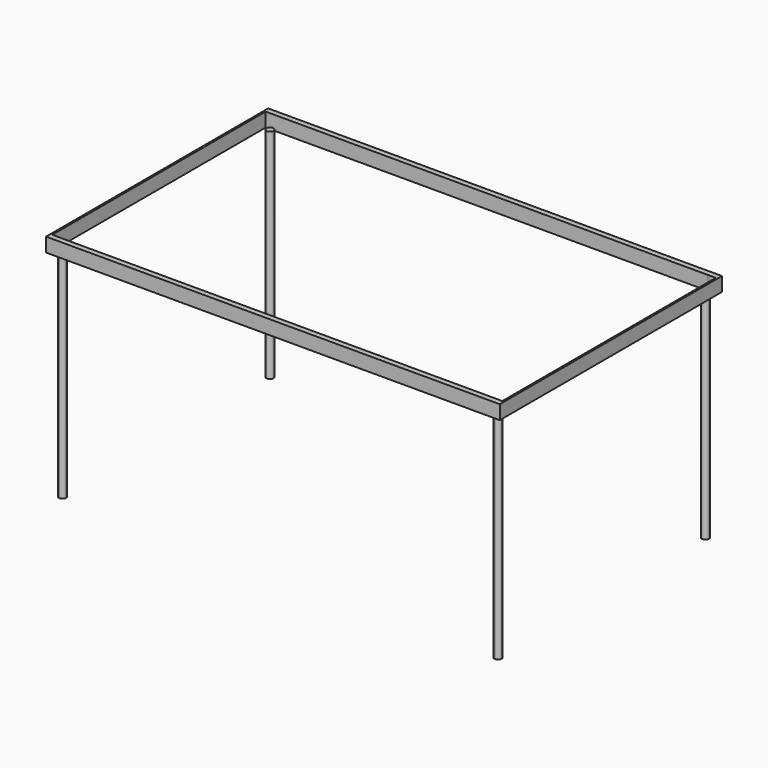
from build123d import *

# Parameters (mm, degrees)
F0_W     = 20
F0_H     = 147.4564534426
F0_H_2   = 1352.5435465574
F0_W_2   = 4600
F0_H_3   = 60
F0_H_4   = 1300
F0_H_5   = 1360
F0_H_6   = 140
F1_DEPTH = 130
F2_DEPTH = 25
F0_R     = 40
F3_DEPTH = 2400
F4_ANGLE = -180


with BuildPart() as f1:
    # F0 (on Top) → F1 (new body)
    with BuildSketch(Plane.XY):
        with Locations((-2490, 103.7282267213)):
            Rectangle(F0_W, F0_H)
        Polygon((-2480, 30), (-2500, 30), (-2500, -30), (-2300, -30), (-2300, 30), align=None)
        with Locations((-2490, 853.7282267213)):
            Rectangle(F0_W, F0_H_2)
        Rectangle(F0_W_2, F0_H_3)
        with Locations((-2490, 2180)):
            Rectangle(F0_W, F0_H_4)
        with BuildLine():
            Line((2387.8667315806, 30), (2300, 30))
            Line((2300, 30), (2300, -30))
            Line((2300, -30), (2500, -30))
            Line((2500, -30), (2500, 30))
            Line((2500, 30), (2480, 30))
            Line((2480, 30), (2407.6798000967, 30))
            ThreePointArc((2407.6798000967, 30), (2397.7732658386, 28.7538459897), (2387.8667315806, 30))
        make_face()
        Polygon((-2500, 3030), (-2500, 2830), (-2480, 2830), (-2480, 2970), (-2480, 3030), align=None)
        with Locations((2490, 850)):
            Rectangle(F0_W, F0_H_5)
        with Locations((2490, 2180)):
            Rectangle(F0_W, F0_H_4)
        with Locations((2490, 100)):
            Rectangle(F0_W, F0_H_6)
        Polygon((-2480, 3030), (-2480, 2970), (-2399.7459411621, 2970), (-2300, 2970), (-2300, 3030), align=None)
        with Locations((2490, 2900)):
            Rectangle(F0_W, F0_H_6)
        with Locations((0, 3000)):
            Rectangle(F0_W_2, F0_H_3)
        Polygon((2400.2509123045, 2970), (2480, 2970), (2500, 2970), (2500, 3030), (2300, 3030), (2300, 2970), align=None)
    extrude(amount=-F1_DEPTH)

    # F0 (on Top) → F2 (join)
    with BuildSketch(Plane.XY):
        with Locations((-2490, 103.7282267213)):
            Rectangle(F0_W, F0_H)
        Polygon((-2480, 30), (-2500, 30), (-2500, -30), (-2300, -30), (-2300, 30), align=None)
        with Locations((-2490, 853.7282267213)):
            Rectangle(F0_W, F0_H_2)
        Rectangle(F0_W_2, F0_H_3)
        with Locations((-2490, 2180)):
            Rectangle(F0_W, F0_H_4)
        with BuildLine():
            Line((2387.8667315806, 30), (2300, 30))
            Line((2300, 30), (2300, -30))
            Line((2300, -30), (2500, -30))
            Line((2500, -30), (2500, 30))
            Line((2500, 30), (2480, 30))
            Line((2480, 30), (2407.6798000967, 30))
            ThreePointArc((2407.6798000967, 30), (2397.7732658386, 28.7538459897), (2387.8667315806, 30))
        make_face()
        Polygon((-2500, 3030), (-2500, 2830), (-2480, 2830), (-2480, 2970), (-2480, 3030), align=None)
        with Locations((2490, 850)):
            Rectangle(F0_W, F0_H_5)
        with Locations((2490, 2180)):
            Rectangle(F0_W, F0_H_4)
        with Locations((2490, 100)):
            Rectangle(F0_W, F0_H_6)
        Polygon((-2480, 3030), (-2480, 2970), (-2399.7459411621, 2970), (-2300, 2970), (-2300, 3030), align=None)
        with Locations((2490, 2900)):
            Rectangle(F0_W, F0_H_6)
        with Locations((0, 3000)):
            Rectangle(F0_W_2, F0_H_3)
        Polygon((2400.2509123045, 2970), (2480, 2970), (2500, 2970), (2500, 3030), (2300, 3030), (2300, 2970), align=None)
    extrude(amount=F2_DEPTH)

    # F0 (on Top) → F3, piece 2 (join)
    with BuildSketch(Plane.XY):
        with BuildLine():
            ThreePointArc((2440.2509117126, 2930), (2428.5351831694, 2958.2842710382), (2400.2509123045, 2970))
            ThreePointArc((2400.2509123045, 2970), (2371.9666402559, 2901.7157289618), (2440.2509117126, 2930))
        make_face()
        with BuildLine():
            ThreePointArc((2437.7732658386, 68.7538459897), (2373.2402408552, 100.3470523031), (2387.8667315806, 30))
            Line((2387.8667315806, 30), (2407.6798000967, 30))
            ThreePointArc((2407.6798000967, 30), (2429.366472152, 44.2208210063), (2437.7732658386, 68.7538459897))
        make_face()
        with BuildLine():
            ThreePointArc((-2359.7459411621, 2930), (-2371.4616699146, 2958.2842712475), (-2399.7459411621, 2970))
            ThreePointArc((-2399.7459411621, 2970), (-2428.0302124096, 2901.7157287525), (-2359.7459411621, 2930))
        make_face()
    extrude(amount=F3_DEPTH)


with BuildPart() as f3:
    # F0 (on Top) → F3 (new body)
    with BuildSketch(Plane.XY):
        with Locations((-2398.0669975281, 73.7282267213)):
            Circle(F0_R)
    extrude(amount=F3_DEPTH)


with BuildPart() as f1_1:
    # F4: moved
    add(f1.part.rotate(Axis((0, 1530, 0), (1, 0, 0)), F4_ANGLE))


with BuildPart() as f3_1:
    # F4: moved
    add(f3.part.rotate(Axis((0, 1530, 0), (1, 0, 0)), F4_ANGLE))


solid = Compound([f1_1.part, f3_1.part])
